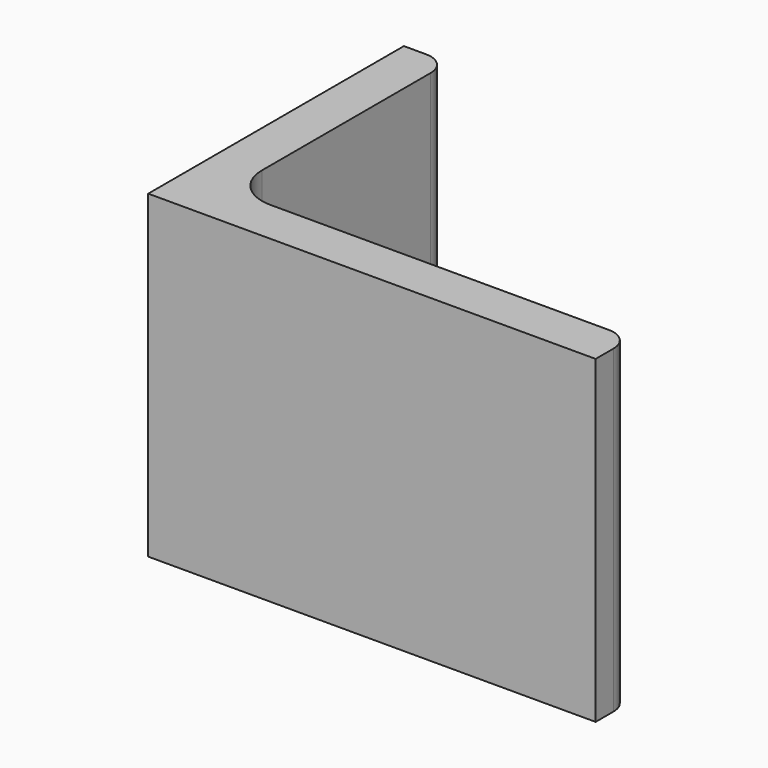
from build123d import *

# Parameters (mm, degrees)
EXTRUDE_DEPTH = 50


with BuildPart() as part:
    # Sketch → Extrude (new body)
    with BuildSketch(Plane.XY):
        with BuildLine():
            Line((0, 0), (70, 0))
            Line((70, 0), (70, 3.5))
            ThreePointArc((70, 3.5), (68.974874, 5.974874), (66.5, 7))
            Line((66.5, 7), (13.5, 7))
            ThreePointArc((7, 13.5), (8.903806, 8.903806), (13.5, 7))
            Line((7, 46.5), (7, 13.5))
            ThreePointArc((7, 46.5), (5.974874, 48.974874), (3.5, 50))
            Line((0, 50), (3.5, 50))
            Line((0, 0), (0, 50))
        make_face()
    extrude(amount=EXTRUDE_DEPTH)


solid = part.part
